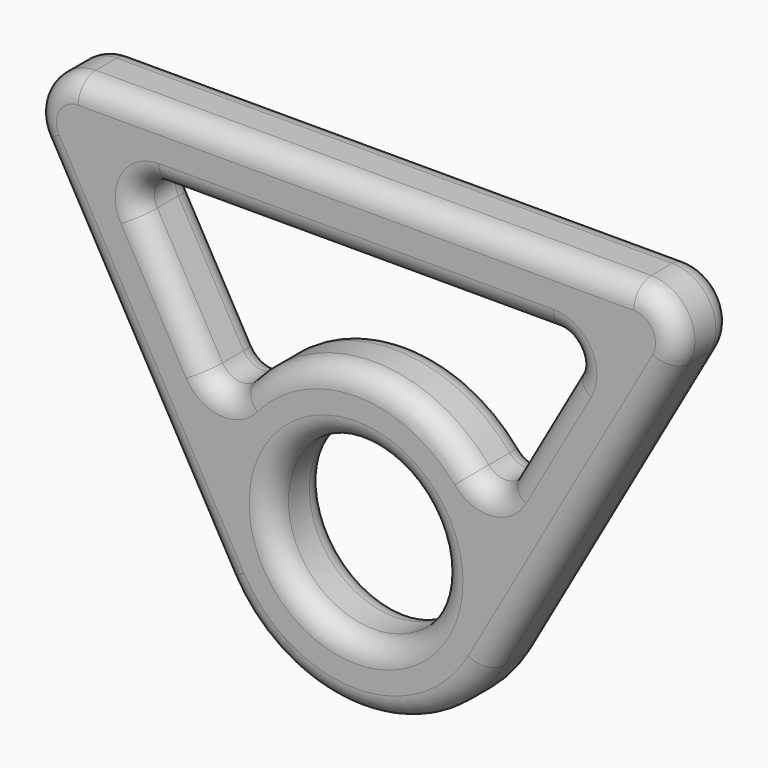
from build123d import *

# Parameters (mm, degrees)
F0_R     = 3.9
F1_DEPTH = 3.2
F2_R     = 1


with BuildPart() as f1:
    # F0 (on Front) → F1 (new body)
    with BuildSketch(Plane.XZ):
        with BuildLine():
            Line((-14.464112, 11.513167), (-6.001573, -3.404574))
            ThreePointArc((-6.001573, -3.404574), (0, -6.9), (6.001573, -3.404574))
            Line((6.001573, -3.404574), (14.464112, 11.513167))
            ThreePointArc((14.464112, 11.513167), (14.452771, 13.506562), (12.724526, 14.5))
            Line((12.724526, 14.5), (-12.724526, 14.5))
            ThreePointArc((-12.724526, 14.5), (-14.452771, 13.506562), (-14.464112, 11.513167))
        make_face()
        Circle(F0_R, mode=Mode.SUBTRACT)
        with BuildLine():
            ThreePointArc((-9.902814, 9.856584), (-9.897144, 10.853281), (-9.033021, 11.35))
            Line((-9.033021, 11.35), (9.033021, 11.35))
            ThreePointArc((9.033021, 11.35), (9.897144, 10.853281), (9.902814, 9.856584))
            Line((9.902814, 9.856584), (6.915922, 4.591298))
            ThreePointArc((6.915922, 4.591298), (6.137613, 4.088908), (5.280796, 4.44108))
            ThreePointArc((5.280796, 4.44108), (0, 6.9), (-5.280796, 4.44108))
            ThreePointArc((-5.280796, 4.44108), (-6.137613, 4.088908), (-6.915922, 4.591298))
            Line((-6.915922, 4.591298), (-9.902814, 9.856584))
        make_face(mode=Mode.SUBTRACT)
    extrude(amount=F1_DEPTH)

    # F2
    f2_edges = [f1.edges().sort_by_distance(p)[0] for p in [
        (-10.232843, -3.2, 4.054297),
        (0, -3.2, -6.9),
        (10.232843, -3.2, 4.054297),
        (14.452771, -3.2, 13.506562),
        (0, -3.2, 14.5),
        (-14.452771, -3.2, 13.506562),
        (-3.9, -3.2, 0),
        (8.409368, -3.2, 7.223941),
        (6.137613, -3.2, 4.088908),
        (0, -3.2, 6.9),
        (-6.137613, -3.2, 4.088908),
        (-8.409368, -3.2, 7.223941),
        (-9.897144, -3.2, 10.853281),
        (0, -3.2, 11.35),
        (9.897144, -3.2, 10.853281),
        (-10.232843, 0, 4.054297),
        (0, 0, -6.9),
        (10.232843, 0, 4.054297),
        (14.452771, 0, 13.506562),
        (0, 0, 14.5),
        (-14.452771, 0, 13.506562),
        (-3.9, 0, 0),
        (8.409368, 0, 7.223941),
        (6.137613, 0, 4.088908),
        (0, 0, 6.9),
        (-6.137613, 0, 4.088908),
        (-8.409368, 0, 7.223941),
        (-9.897144, 0, 10.853281),
        (0, 0, 11.35),
        (9.897144, 0, 10.853281),
    ]]
    fillet(f2_edges, radius=F2_R)


solid = f1.part
